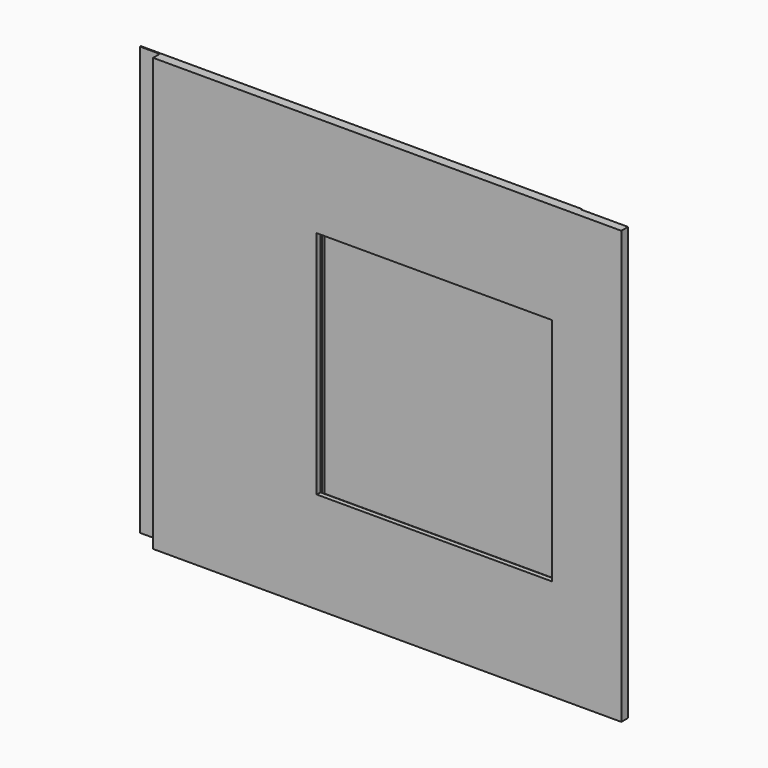
from build123d import *

# Parameters (mm, degrees)
F0_W      = 111.125
F0_H      = 102.616
F1_DEPTH  = 1.99898
F2_W      = 55.88
F2_H      = 54.61
F3_DEPTH  = 1.10998
F4_W      = 77.216
F4_H      = 89.916
F5_DEPTH  = 0.889
F6_W      = 76.2
F6_H      = 88.9
F7_DEPTH  = 0.65024
F8_W      = 56.388
F8_H      = 56.388
F9_DEPTH  = 0.65024
F10_W     = 63.99276
F10_H     = 64.36106
F11_DEPTH = 0.59944
F12_W     = 104.648
F12_H     = 101.6
F13_DEPTH = 0.254


with BuildPart() as f1:
    # F0 (on Front) → F1 (new body)
    with BuildSketch(Plane.XZ):
        with Locations((-8.899393, -4.392473)):
            Rectangle(F0_W, F0_H)
    extrude(amount=F1_DEPTH)

    # F2 (on face) → F3 (cut)
    with BuildSketch(Plane.XZ.offset(1.99898)):
        with Locations((2.314707, -4.392473)):
            Rectangle(F2_W, F2_H)
    extrude(amount=-F3_DEPTH, mode=Mode.SUBTRACT)

    # F4 (on face) → F5 (cut)
    with BuildSketch(Plane(origin=(0, 0, 0), x_dir=(-1, 0, 0), z_dir=(0, 1, 0))):
        with Locations((-2.975107, -4.392473)):
            Rectangle(F4_W, F4_H)
    extrude(amount=-F5_DEPTH, mode=Mode.SUBTRACT)

    # F6 (on face) → F7 (join)
    with BuildSketch(Plane(origin=(0, -0.889, 0), x_dir=(-1, 0, 0), z_dir=(0, 1, 0))):
        with Locations((-3.483107, -3.884473)):
            Rectangle(F6_W, F6_H)
    extrude(amount=F7_DEPTH)

    # F8 (on face) → F9 (cut)
    with BuildSketch(Plane(origin=(0, -0.23876, 0), x_dir=(-1, 0, 0), z_dir=(0, 1, 0))):
        with Locations((-2.975107, -3.884473)):
            Rectangle(F8_W, F8_H)
    extrude(amount=-F9_DEPTH, mode=Mode.SUBTRACT)

    # F10 (on face) → F11 (join)
    with BuildSketch(Plane(origin=(0, -0.23876, 0), x_dir=(-1, 0, 0), z_dir=(0, 1, 0))):
        with Locations((-2.975107, -4.393743)):
            Rectangle(F10_W, F10_H)
    extrude(amount=F11_DEPTH)

    # F12 (on face) → F13 (join)
    with BuildSketch(Plane(origin=(0, 0, 0), x_dir=(-1, 0, 0), z_dir=(0, 1, 0))):
        with Locations((16.849593, -3.884473)):
            Rectangle(F12_W, F12_H)
    extrude(amount=F13_DEPTH)


solid = f1.part
